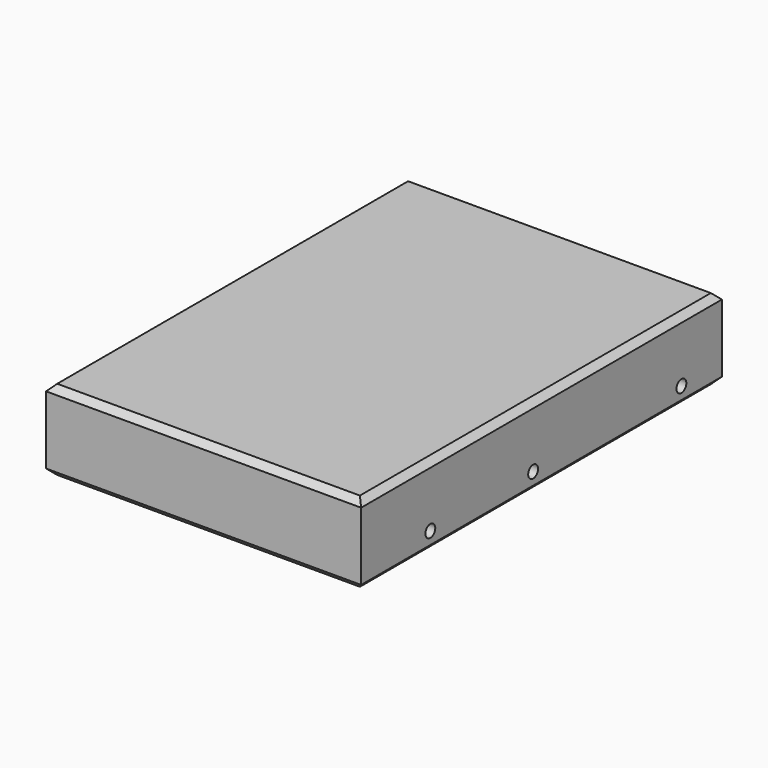
from build123d import *

# Parameters (mm, degrees)
SKETCH064_W             = 102
SKETCH064_H             = 146
PAD021_DEPTH            = 26
SKETCH065_R             = 2
POCKET043_DEPTH         = 102.001
CHAMFER003_SIZE         = 2
BODY017_PLACEMENT_ANGLE = 180


with BuildPart() as part:
    # Sketch064 → Pad021 (new body)
    with BuildSketch(Plane.XY):
        Rectangle(SKETCH064_W, SKETCH064_H)
    extrude(amount=PAD021_DEPTH)

    # Sketch065 (on Face3 of Pad021) → Pocket043 (cut, through all)
    with BuildSketch(Plane.YZ.offset(51)):
        with Locations((45, 6)):
            Circle(SKETCH065_R)
        with Locations((3.4, 6)):
            Circle(SKETCH065_R)
        with Locations((-56.6, 6)):
            Circle(SKETCH065_R)
    extrude(amount=-POCKET043_DEPTH, mode=Mode.SUBTRACT)

    # Chamfer003
    chamfer003_edges = [part.edges().sort_by_distance(p)[0] for p in [
        (-51, 0, 0),
        (0, -73, 0),
        (51, 0, 0),
        (0, 73, 0),
        (-51, 0, 26),
        (0, -73, 26),
        (51, 0, 26),
        (0, 73, 26),
    ]]
    chamfer(chamfer003_edges, length=CHAMFER003_SIZE)


with BuildPart() as part_1:
    # Body017 placement: moved
    add(part.part.moved(Location((63.5, 58.4, 40.5))).rotate(Axis((63.5, 58.4, 40.5), (0, 0, 1)), BODY017_PLACEMENT_ANGLE))


solid = part_1.part
